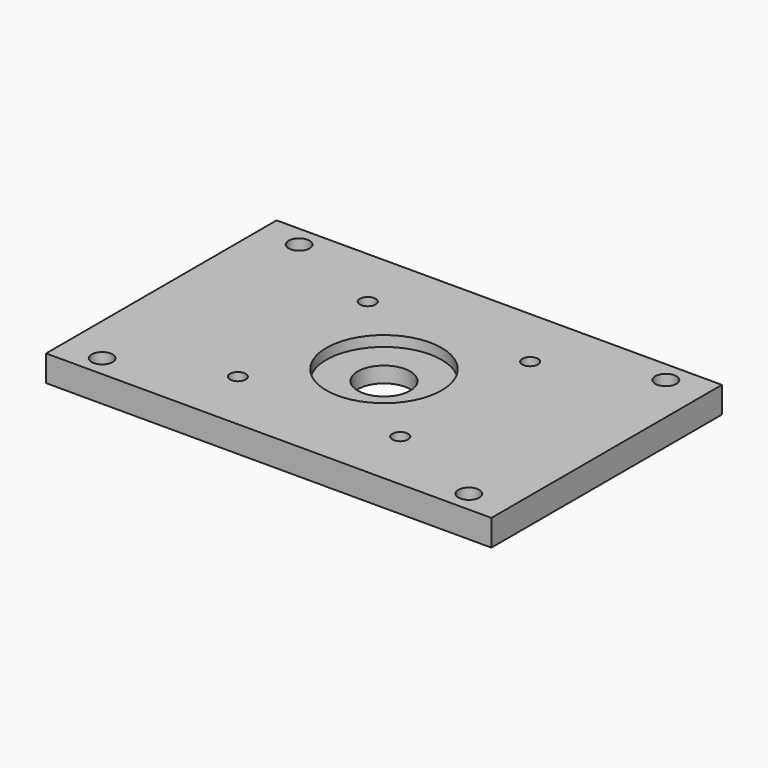
from build123d import *

# Parameters (mm, degrees)
F0_W     = 85
F0_H     = 55
F1_DEPTH = 5
F2_R     = 11
F3_DEPTH = 2
F4_R     = 5
F5_DEPTH = 3.001
F6_R     = 1.5
F7_DEPTH = 5.001
F8_R     = 2
F9_DEPTH = 5.001


with BuildPart() as f1:
    # F0 (on Top) → F1 (new body)
    with BuildSketch(Plane.XY):
        Rectangle(F0_W, F0_H)
    extrude(amount=F1_DEPTH)

    # F2 (on face) → F3 (cut)
    with BuildSketch(Plane.XY.offset(5)):
        Circle(F2_R)
    extrude(amount=-F3_DEPTH, mode=Mode.SUBTRACT)

    # F4 (on face) → F5 (cut, through all)
    with BuildSketch(Plane.XY.offset(3)):
        Circle(F4_R)
    extrude(amount=-F5_DEPTH, mode=Mode.SUBTRACT)

    # F6 (on face) → F7 (cut, through all)
    with BuildSketch(Plane.XY.offset(5)):
        with Locations((-15.5, 15.5)):
            Circle(F6_R)
        with Locations((15.5, 15.5)):
            Circle(F6_R)
        with Locations((15.5, -15.5)):
            Circle(F6_R)
        with Locations((-15.5, -15.5)):
            Circle(F6_R)
    extrude(amount=-F7_DEPTH, mode=Mode.SUBTRACT)

    # F8 (on face) → F9 (cut, through all)
    with BuildSketch(Plane.XY.offset(5)):
        with Locations((-35, -23.5)):
            Circle(F8_R)
        with Locations((-35, 23.5)):
            Circle(F8_R)
        with Locations((35, 23.5)):
            Circle(F8_R)
        with Locations((35, -23.5)):
            Circle(F8_R)
    extrude(amount=-F9_DEPTH, mode=Mode.SUBTRACT)


solid = f1.part
